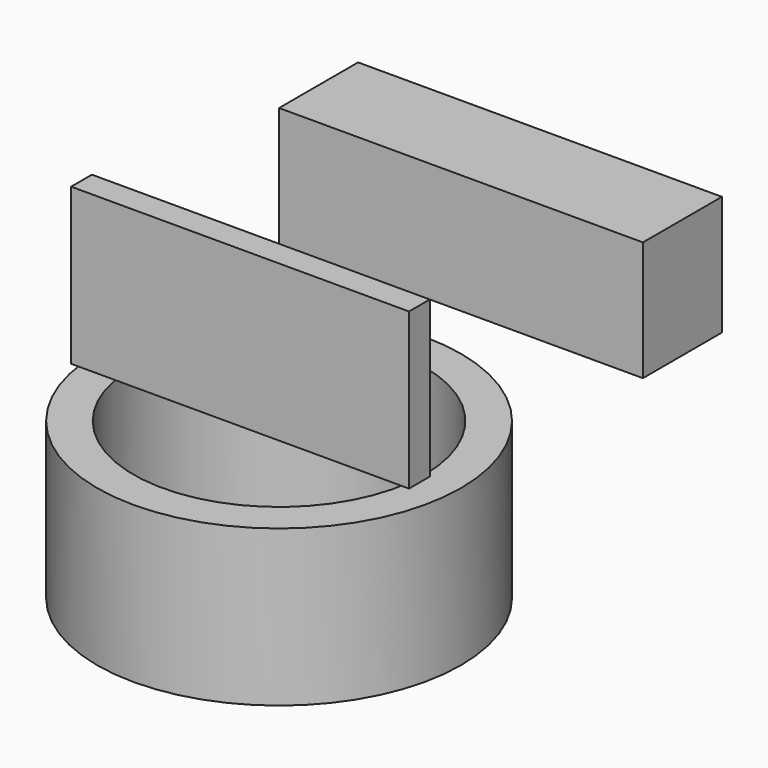
from build123d import *

# Parameters (mm, degrees)
BOX_W             = 70
BOX_H             = 19
BOX_DEPTH         = 23
CYLINDER001_R     = 28
CYLINDER001_DEPTH = 30
CYLINDER_R        = 35
CYLINDER_DEPTH    = 30
BOX001_W          = 65
BOX001_H          = 5
BOX001_DEPTH      = 30


with BuildPart() as motor:
    # Box → Box (new body)
    with BuildSketch(Plane.XY):
        with Locations((35, 9.5)):
            Rectangle(BOX_W, BOX_H)
    extrude(amount=BOX_DEPTH)


with BuildPart() as internal:
    # Cylinder001 → Cylinder001 (new body)
    with BuildSketch(Plane.XY):
        Circle(CYLINDER001_R)
    extrude(amount=CYLINDER001_DEPTH)


with BuildPart() as wheel:
    # Cylinder → Cylinder (new body)
    with BuildSketch(Plane.XY):
        Circle(CYLINDER_R)
    extrude(amount=CYLINDER_DEPTH)

    # Cut: cut internal
    add(internal.part, mode=Mode.SUBTRACT)


with BuildPart() as wheel_1:
    # Cut placement: moved
    add(wheel.part.moved(Location((0, 0, -60))))


with BuildPart() as obj1:
    # Box001 → Box001 (new body)
    with BuildSketch(Plane(origin=(0, -50, 0), x_dir=(1, 0, 0), z_dir=(0, 0, 1))):
        with Locations((32.5, 2.5)):
            Rectangle(BOX001_W, BOX001_H)
    extrude(amount=BOX001_DEPTH)


solid = Compound([motor.part, wheel_1.part, obj1.part])
